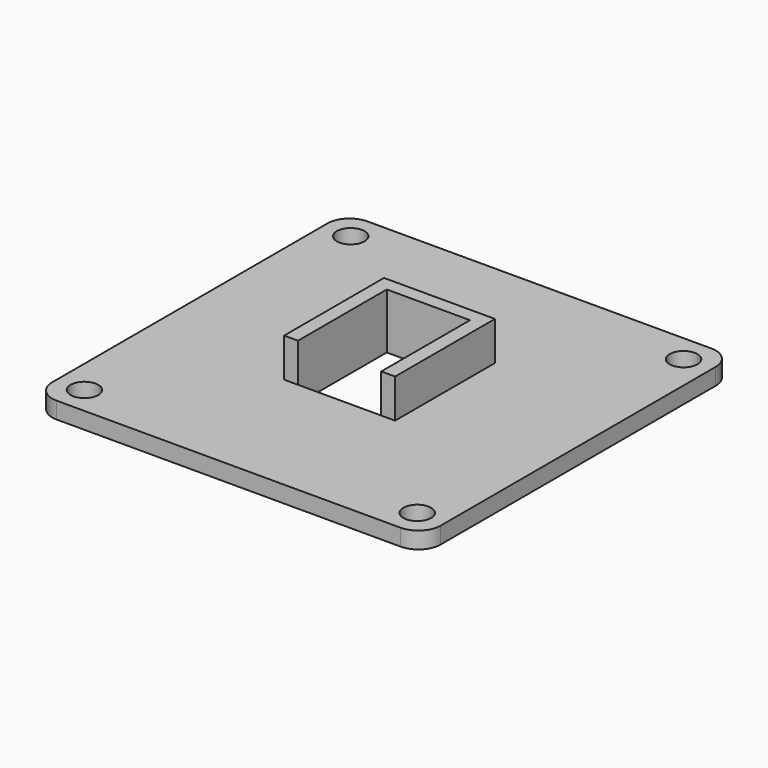
from build123d import *

# Parameters (mm, degrees)
F0_R     = 2.5
F1_DEPTH = 3
F2_DEPTH = 10


with BuildPart() as f1:
    # F0 (on Top) → F1 (new body)
    with BuildSketch(Plane.XY):
        with BuildLine():
            ThreePointArc((0, 4), (1.171573, 1.171573), (4, 0))
            Line((4, 0), (66, 0))
            ThreePointArc((66, 0), (68.828427, 1.171573), (70, 4))
            Line((70, 4), (70, 66))
            ThreePointArc((70, 66), (68.828427, 68.828427), (66, 70))
            Line((66, 70), (4, 70))
            ThreePointArc((4, 70), (1.171573, 68.828427), (0, 66))
            Line((0, 66), (0, 4))
        make_face()
        with Locations((5, 5)):
            Circle(F0_R, mode=Mode.SUBTRACT)
        with Locations((65, 5)):
            Circle(F0_R, mode=Mode.SUBTRACT)
        with Locations((5, 65)):
            Circle(F0_R, mode=Mode.SUBTRACT)
        Polygon((45, 25), (42.5, 25), (27.5, 25), (25, 25), (25, 47.5), (45, 47.5), align=None, mode=Mode.SUBTRACT)
        with Locations((65, 65)):
            Circle(F0_R, mode=Mode.SUBTRACT)
    extrude(amount=F1_DEPTH)

    # F0 (on Top) → F2 (join)
    with BuildSketch(Plane.XY):
        Polygon((42.5, 45), (42.5, 25), (45, 25), (45, 47.5), (25, 47.5), (25, 25), (27.5, 25), (27.5, 45), align=None)
    extrude(amount=F2_DEPTH)


solid = f1.part
